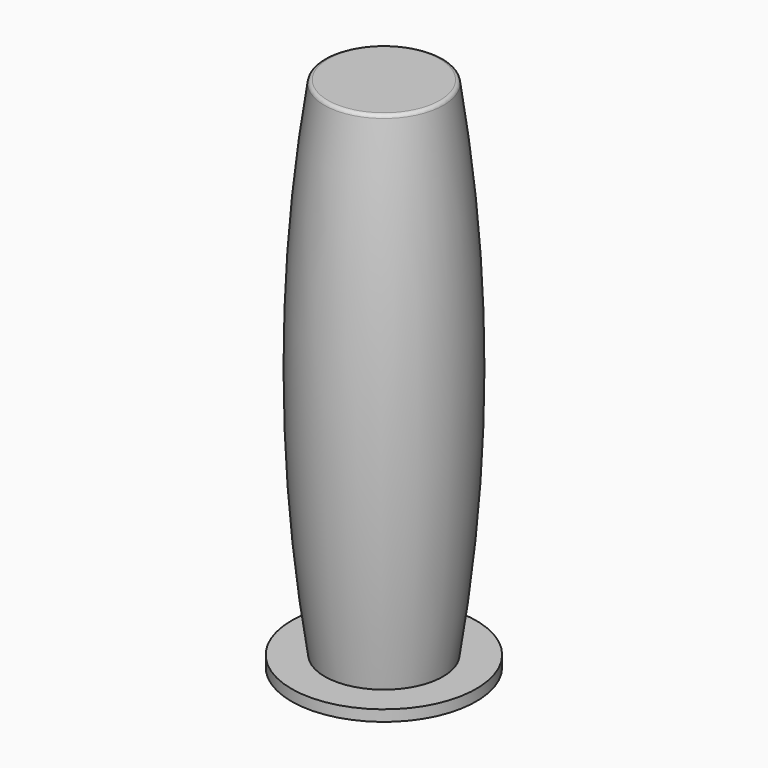
from build123d import *

# Parameters (mm, degrees)
F2_R = 1


with BuildPart() as f1:
    # F0 (on Front) → F1 (revolve)
    with BuildSketch(Plane.XZ):
        with BuildLine():
            Line((-25, 3), (-25, 0))
            Line((-25, 0), (-12.5, 0))
            Line((-12.5, 0), (-12.5, 139))
            Line((-12.5, 139), (0, 139))
            Line((0, 139), (0, 140))
            Line((0, 140), (-12.5, 140))
            Line((-12.5, 140), (-16, 140))
            ThreePointArc((-16, 140), (-21.2441681102, 71.5), (-16, 3))
            Line((-16, 3), (-25, 3))
        make_face()
    revolve(axis=Axis((0, 0, 34.8650403321), (0, 0, 1)))

    # F2
    f2_edges = [f1.edges().sort_by_distance(p)[0] for p in [
        (16, 0, 140),
    ]]
    fillet(f2_edges, radius=F2_R)


solid = f1.part
